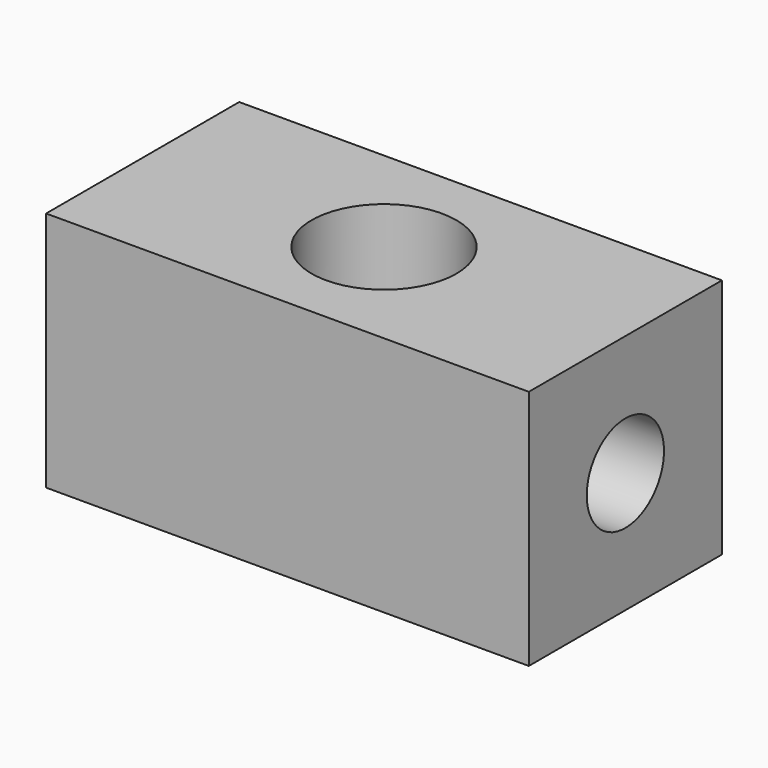
from build123d import *

# Parameters (mm, degrees)
F0_W     = 100
F0_H     = 50
F0_R     = 15
F1_DEPTH = 50
F2_R     = 10
F3_DEPTH = 100


with BuildPart() as f1:
    # F0 (on Top) → F1 (new body)
    with BuildSketch(Plane.XY):
        Rectangle(F0_W, F0_H)
        Circle(F0_R, mode=Mode.SUBTRACT)
    extrude(amount=F1_DEPTH)

    # F2 (on face) → F3 (cut)
    with BuildSketch(Plane(origin=(-50, 0, 0), x_dir=(0, -1, 0), z_dir=(-1, 0, 0))):
        with Locations((0, 25)):
            Circle(F2_R)
    extrude(amount=-F3_DEPTH, mode=Mode.SUBTRACT)


solid = f1.part
